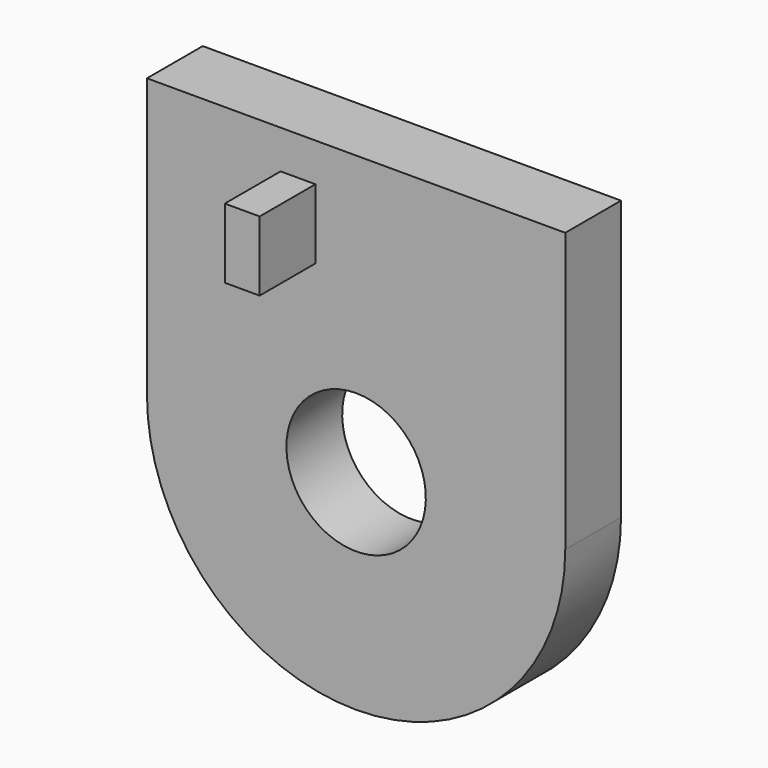
from build123d import *

# Parameters (mm, degrees)
F0_W     = 254
F0_H     = 254
F1_DEPTH = 254
F2_W     = 127
F2_H     = 254
F3_DEPTH = 127
F4_DEPTH = 127


with BuildPart() as f1:
    # F0 (on Front) → F1 (new body)
    with BuildSketch(Plane.XZ):
        Polygon((-254, 1016), (-1524, 1016), (-1524, 254), (-762, 254), (0, 254), (0, 762), (-254, 762), align=None)
        with Locations((-127, 889)):
            Rectangle(F0_W, F0_H)
        with BuildLine():
            Line((-762, 254), (-1524, 254))
            Line((-1524, 254), (-1524, 0))
            ThreePointArc((-1524, 0), (-762, -762), (0, 0))
            Line((0, 0), (0, 254))
            Line((0, 254), (-762, 254))
        make_face()
        with BuildLine():
            ThreePointArc((-508, 0), (-941.6051224214, -179.6051224214), (-762, 254))
            ThreePointArc((-762, 254), (-582.3948775786, 179.6051224214), (-508, 0))
        make_face(mode=Mode.SUBTRACT)
    extrude(amount=F1_DEPTH)

    # F2 (on face) → F3 (join)
    with BuildSketch(Plane.XZ.offset(254)):
        with Locations((-973.7388785046, 748.6669676349)):
            Rectangle(F2_W, F2_H)
    extrude(amount=F3_DEPTH)

    # F4 (add): a face of the model
    f4_faces = [f1.faces().sort_by_distance(p)[0] for p in [
        (-973.7388785046, -381, 748.6669676349),
    ]]
    extrude(f4_faces, amount=F4_DEPTH)


solid = f1.part
